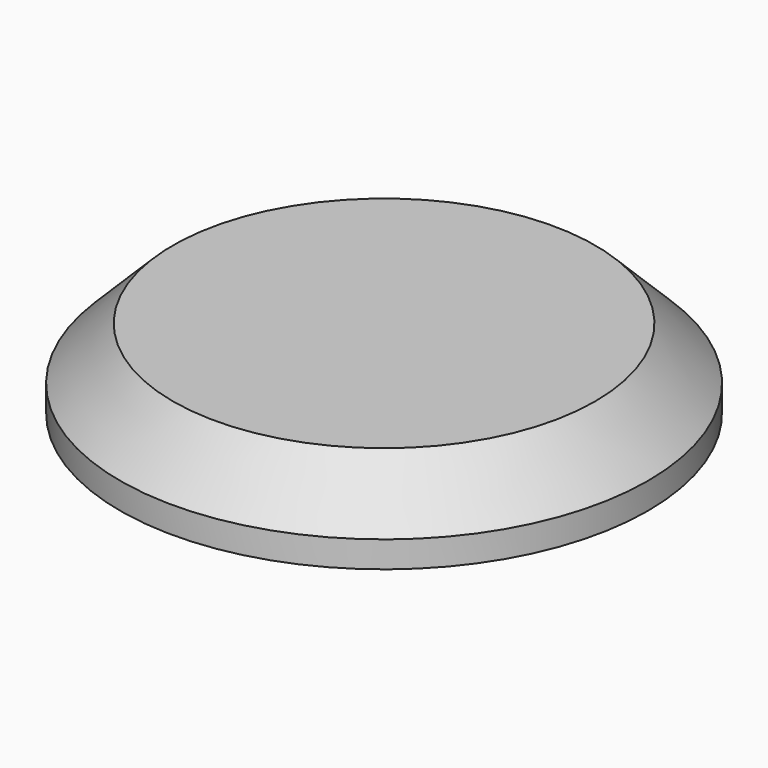
from build123d import *

# Parameters (mm, degrees)
F0_R     = 63.5
F1_DEPTH = 19.05
F2_R     = 6.35
F3_DEPTH = 6.35
F4_SIZE  = 12.7


with BuildPart() as f1:
    # F0 (on Top) → F1 (new body)
    with BuildSketch(Plane.XY):
        with Locations((0, -4.811709)):
            Circle(F0_R)
    extrude(amount=F1_DEPTH)

    # F2 (on face) → F3 (join)
    with BuildSketch(Plane(origin=(0, 0, 0), x_dir=(1, 0, 0), z_dir=(0, 0, -1))):
        Circle(F2_R)
    extrude(amount=F3_DEPTH)

    # F4
    f4_edges = [f1.edges().sort_by_distance(p)[0] for p in [
        (-63.5, -4.811709, 19.05),
    ]]
    chamfer(f4_edges, length=F4_SIZE)


solid = f1.part
